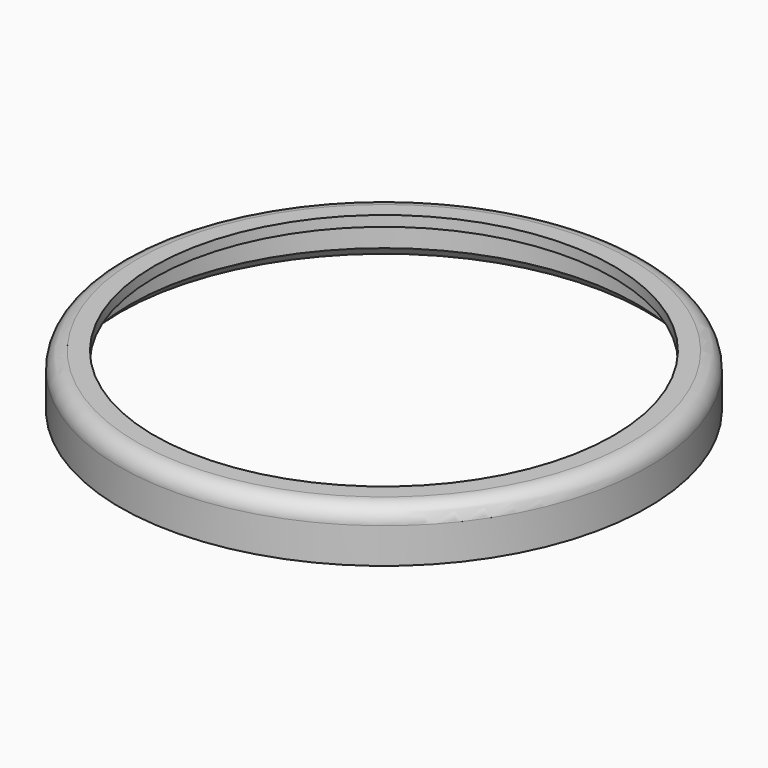
from build123d import *


with BuildPart() as f2:
    # F1 (on Front) → F2 (revolve)
    with BuildSketch(Plane.XZ):
        with BuildLine():
            Line((-25.35, 3.4), (-25.35, 0))
            Line((-25.35, 0), (-24.35, 1))
            Line((-24.35, 1), (-24.35, 3.403729))
            ThreePointArc((-24.35, 3.403729), (-24.172952, 3.825589), (-23.75, 4.000012))
            Line((-23.75, 4.000012), (-22.05, 4.000012))
            Line((-22.05, 4.000012), (-22.05, 5))
            Line((-22.05, 5), (-23.75, 5))
            ThreePointArc((-23.75, 5), (-24.881371, 4.531371), (-25.35, 3.4))
        make_face()
    revolve(axis=Axis((0, 0, 18.396249), (0, 0, 1)))


solid = f2.part
